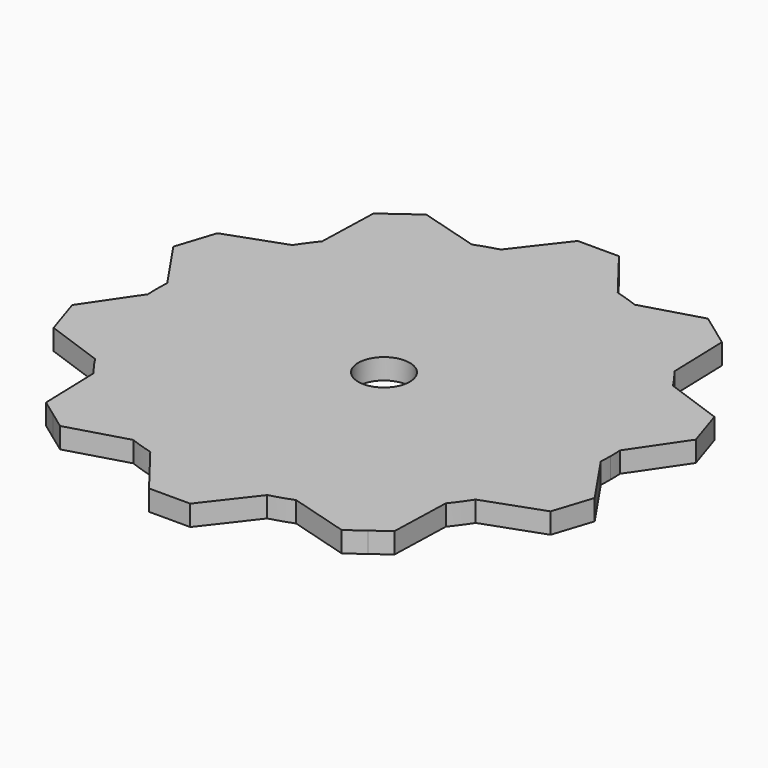
from build123d import *

# Parameters (mm, degrees)
F0_R     = 15.875
F1_DEPTH = 12.7


with BuildPart() as f1:
    # F0 (on Top) → F1 (new body)
    with BuildSketch(Plane.XY):
        with BuildLine():
            ThreePointArc((139.501369, -7.447021), (139.650333, -3.724835), (139.7, 0))
            ThreePointArc((139.7, 0), (139.650333, 3.724835), (139.501369, 7.447021))
            ThreePointArc((139.501369, 7.447021), (132.862595, 43.169674), (117.236227, 75.97208))
            ThreePointArc((117.236227, 75.97208), (113.019674, 82.1136), (108.481729, 88.021614))
            ThreePointArc((108.481729, 88.021614), (82.1136, 113.019674), (50.190832, 130.37243))
            ThreePointArc((50.190832, 130.37243), (43.169674, 132.862595), (36.025756, 134.974942))
            ThreePointArc((36.025756, 134.974942), (0, 139.7), (-36.025756, 134.974942))
            ThreePointArc((-36.025756, 134.974942), (-43.169674, 132.862595), (-50.190832, 130.37243))
            ThreePointArc((-50.190832, 130.37243), (-82.1136, 113.019674), (-108.481729, 88.021614))
            ThreePointArc((-108.481729, 88.021614), (-113.019674, 82.1136), (-117.236227, 75.97208))
            ThreePointArc((-117.236227, 75.97208), (-132.862595, 43.169674), (-139.501369, 7.447021))
            ThreePointArc((-139.501369, 7.447021), (-139.7, 0), (-139.501369, -7.447021))
            ThreePointArc((-139.501369, -7.447021), (-132.862595, -43.169674), (-117.236227, -75.97208))
            ThreePointArc((-117.236227, -75.97208), (-113.019674, -82.1136), (-108.481729, -88.021614))
            ThreePointArc((-108.481729, -88.021614), (-82.1136, -113.019674), (-50.190832, -130.37243))
            ThreePointArc((-50.190832, -130.37243), (-43.169674, -132.862595), (-36.025756, -134.974942))
            ThreePointArc((-36.025756, -134.974942), (0, -139.7), (36.025756, -134.974942))
            ThreePointArc((36.025756, -134.974942), (43.169674, -132.862595), (50.190832, -130.37243))
            ThreePointArc((50.190832, -130.37243), (82.1136, -113.019674), (108.481729, -88.021614))
            ThreePointArc((108.481729, -88.021614), (113.019674, -82.1136), (117.236227, -75.97208))
            ThreePointArc((117.236227, -75.97208), (132.862595, -43.169674), (139.501369, -7.447021))
        make_face()
        Circle(F0_R, mode=Mode.SUBTRACT)
        with BuildLine():
            ThreePointArc((117.236227, 75.97208), (132.862595, 43.169674), (139.501369, 7.447021))
            Line((139.501369, 7.447021), (160.943947, 38.940288))
            Line((160.943947, 38.940288), (157.019431, 51.018706))
            Line((157.019431, 51.018706), (153.094915, 63.097124))
            Line((153.094915, 63.097124), (117.236227, 75.97208))
        make_face()
        with BuildLine():
            Line((160.943947, -38.940288), (139.501369, -7.447021))
            ThreePointArc((139.501369, -7.447021), (132.862595, -43.169674), (117.236227, -75.97208))
            Line((117.236227, -75.97208), (153.094915, -63.097124))
            Line((153.094915, -63.097124), (157.019431, -51.018706))
            Line((157.019431, -51.018706), (160.943947, -38.940288))
        make_face()
        with BuildLine():
            ThreePointArc((50.190832, 130.37243), (82.1136, 113.019674), (108.481729, 88.021614))
            Line((108.481729, 88.021614), (107.317861, 126.103833))
            Line((107.317861, 126.103833), (97.043345, 133.568706))
            Line((97.043345, 133.568706), (86.768829, 141.033578))
            Line((86.768829, 141.033578), (50.190832, 130.37243))
        make_face()
        with BuildLine():
            Line((107.317861, -126.103833), (108.481729, -88.021614))
            ThreePointArc((108.481729, -88.021614), (82.1136, -113.019674), (50.190832, -130.37243))
            Line((50.190832, -130.37243), (86.768829, -141.033578))
            Line((86.768829, -141.033578), (97.043345, -133.568706))
            Line((97.043345, -133.568706), (107.317861, -126.103833))
        make_face()
        with BuildLine():
            ThreePointArc((-36.025756, 134.974942), (0, 139.7), (36.025756, 134.974942))
            Line((36.025756, 134.974942), (12.7, 165.1))
            Line((12.7, 165.1), (0, 165.1))
            Line((0, 165.1), (-12.7, 165.1))
            Line((-12.7, 165.1), (-36.025756, 134.974942))
        make_face()
        with BuildLine():
            Line((12.7, -165.1), (36.025756, -134.974942))
            ThreePointArc((36.025756, -134.974942), (0, -139.7), (-36.025756, -134.974942))
            Line((-36.025756, -134.974942), (-12.7, -165.1))
            Line((-12.7, -165.1), (0, -165.1))
            Line((0, -165.1), (12.7, -165.1))
        make_face()
        with BuildLine():
            ThreePointArc((-108.481729, 88.021614), (-82.1136, 113.019674), (-50.190832, 130.37243))
            Line((-50.190832, 130.37243), (-86.768829, 141.033578))
            Line((-86.768829, 141.033578), (-97.043345, 133.568706))
            Line((-97.043345, 133.568706), (-107.317861, 126.103833))
            Line((-107.317861, 126.103833), (-108.481729, 88.021614))
        make_face()
        with BuildLine():
            Line((-86.768829, -141.033578), (-50.190832, -130.37243))
            ThreePointArc((-50.190832, -130.37243), (-82.1136, -113.019674), (-108.481729, -88.021614))
            Line((-108.481729, -88.021614), (-107.317861, -126.103833))
            Line((-107.317861, -126.103833), (-97.043345, -133.568706))
            Line((-97.043345, -133.568706), (-86.768829, -141.033578))
        make_face()
        with BuildLine():
            ThreePointArc((-139.501369, 7.447021), (-132.862595, 43.169674), (-117.236227, 75.97208))
            Line((-117.236227, 75.97208), (-153.094915, 63.097124))
            Line((-153.094915, 63.097124), (-157.019431, 51.018706))
            Line((-157.019431, 51.018706), (-160.943947, 38.940288))
            Line((-160.943947, 38.940288), (-139.501369, 7.447021))
        make_face()
        with BuildLine():
            Line((-153.094915, -63.097124), (-117.236227, -75.97208))
            ThreePointArc((-117.236227, -75.97208), (-132.862595, -43.169674), (-139.501369, -7.447021))
            Line((-139.501369, -7.447021), (-160.943947, -38.940288))
            Line((-160.943947, -38.940288), (-157.019431, -51.018706))
            Line((-157.019431, -51.018706), (-153.094915, -63.097124))
        make_face()
    extrude(amount=F1_DEPTH)


solid = f1.part
